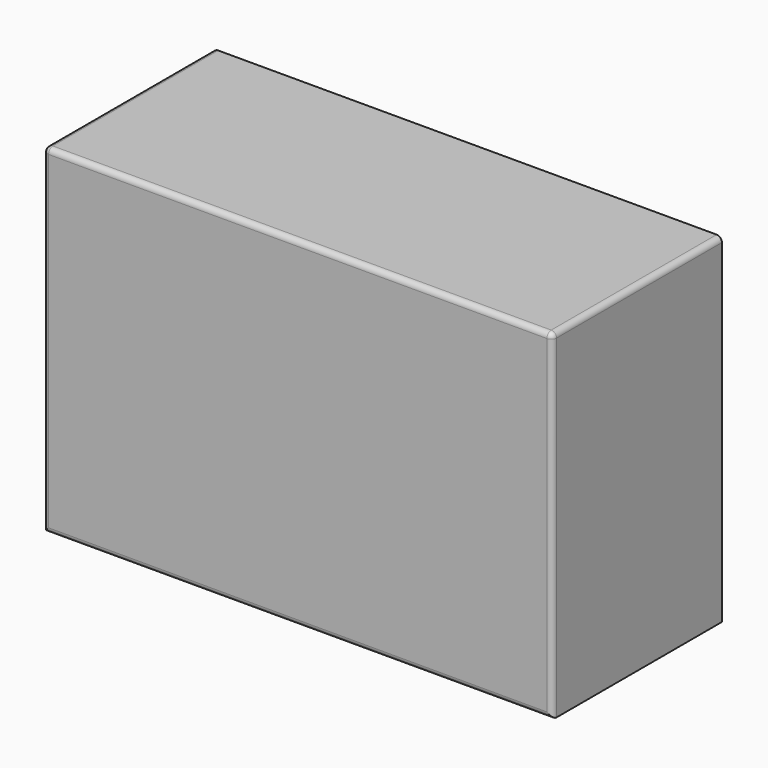
from build123d import *

# Parameters (mm, degrees)
F0_W     = 30.48
F0_H     = 12.7
F1_DEPTH = 20.32
F2_R     = 0.3175


with BuildPart() as f1:
    # F0 (on Top) → F1 (new body)
    with BuildSketch(Plane.XY):
        Rectangle(F0_W, F0_H)
    extrude(amount=-F1_DEPTH)

    # F2
    f2_edges = [f1.edges().sort_by_distance(p)[0] for p in [
        (15.24, 0, 0),
        (0, -6.35, 0),
        (-15.24, 0, 0),
        (15.24, -6.35, -10.16),
        (0, -6.35, -20.32),
        (-15.24, -6.35, -10.16),
    ]]
    fillet(f2_edges, radius=F2_R)


solid = f1.part
